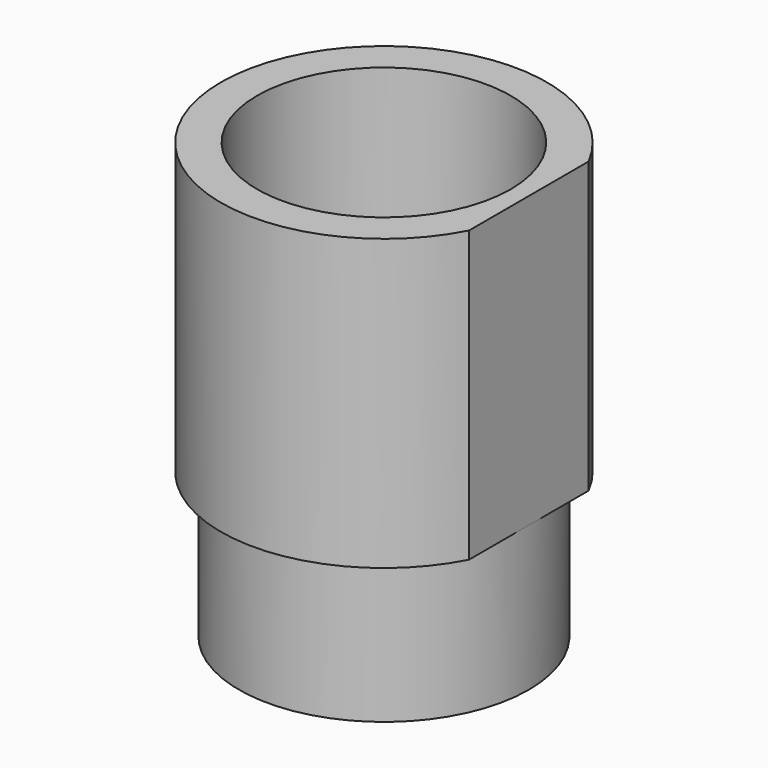
from build123d import *

# Parameters (mm, degrees)
F0_R     = 2
F0_R_2   = 1.75
F1_DEPTH = 4
F2_DEPTH = 2


with BuildPart() as f1:
    # F0 (on Top) → F1 (new body)
    with BuildSketch(Plane.XY):
        with BuildLine():
            Line((2, 0), (2, 1.0307764064))
            ThreePointArc((2, 1.0307764064), (-2.25, 0), (2, -1.0307764064))
            Line((2, -1.0307764064), (2, 0))
        make_face()
        Circle(F0_R, mode=Mode.SUBTRACT)
        Circle(F0_R)
        Circle(F0_R_2, mode=Mode.SUBTRACT)
    extrude(amount=F1_DEPTH)

    # F0 (on Top) → F2 (join)
    with BuildSketch(Plane.XY):
        Circle(F0_R)
        Circle(F0_R_2, mode=Mode.SUBTRACT)
    extrude(amount=-F2_DEPTH)


solid = f1.part
